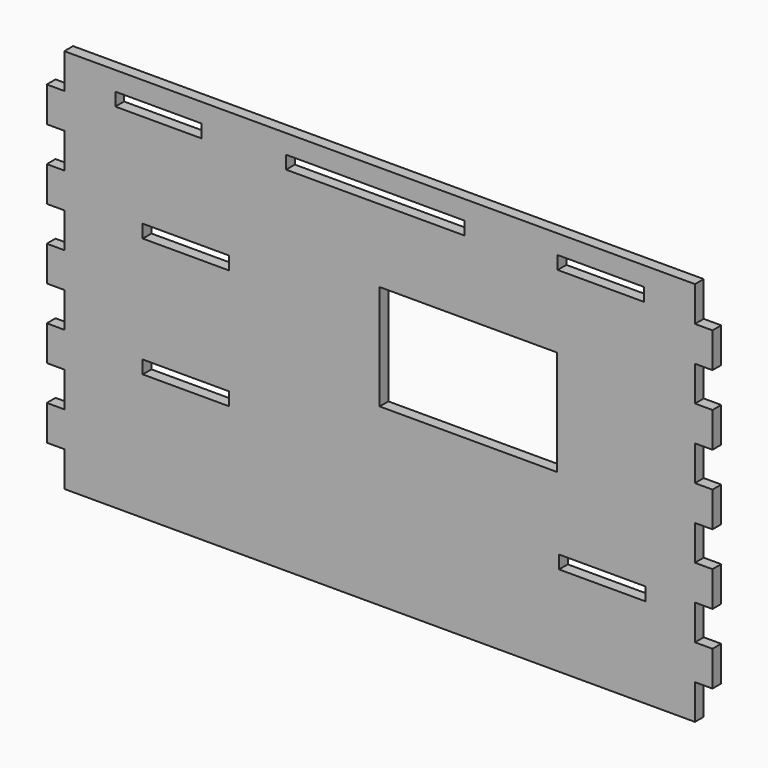
from build123d import *

# Parameters (mm, degrees)
F0_W     = 4
F0_H     = 8
F0_W_2   = 19.7
F0_H_2   = 3
F0_W_3   = 40.7
F0_W_4   = 40.5
F0_H_3   = 24
F1_DEPTH = 2.5


with BuildPart() as f1:
    # F0 (on Front) → F1 (new body)
    with BuildSketch(Plane.XZ):
        with Locations((74, -16)):
            Rectangle(F0_W, F0_H)
        with Locations((74, -32)):
            Rectangle(F0_W, F0_H)
        Polygon((-1, 44), (-72, 44), (-72, 36), (-72, 28), (-72, 20), (-72, 12), (-72, 4), (-72, -4), (-72, -12), (-72, -20), (-72, -28), (-72, -36), (-72, -44), (72, -44), (72, -36), (72, -28), (72, -20), (72, -12), (72, -4), (72, 4), (72, 12), (72, 20), (72, 28), (72, 36), (72, 44), align=None)
        with Locations((-44.236, -13.65)):
            Rectangle(F0_W_2, F0_H_2, mode=Mode.SUBTRACT)
        with Locations((50.815, -21.94)):
            Rectangle(F0_W_2, F0_H_2, mode=Mode.SUBTRACT)
        with Locations((-44.236, 13.65)):
            Rectangle(F0_W_2, F0_H_2, mode=Mode.SUBTRACT)
        with Locations((-50.5, 38.15)):
            Rectangle(F0_W_2, F0_H_2, mode=Mode.SUBTRACT)
        with Locations((-1, 38.15)):
            Rectangle(F0_W_3, F0_H_2, mode=Mode.SUBTRACT)
        with Locations((20.25, 8)):
            Rectangle(F0_W_4, F0_H_3, mode=Mode.SUBTRACT)
        with Locations((50.5, 38.15)):
            Rectangle(F0_W_2, F0_H_2, mode=Mode.SUBTRACT)
        with Locations((74, 0)):
            Rectangle(F0_W, F0_H)
        with Locations((74, 16)):
            Rectangle(F0_W, F0_H)
        with Locations((74, 32)):
            Rectangle(F0_W, F0_H)
        with Locations((-74, -32)):
            Rectangle(F0_W, F0_H)
        with Locations((-74, -16)):
            Rectangle(F0_W, F0_H)
        with Locations((-74, 0)):
            Rectangle(F0_W, F0_H)
        with Locations((-74, 32)):
            Rectangle(F0_W, F0_H)
        with Locations((-74, 16)):
            Rectangle(F0_W, F0_H)
    extrude(amount=F1_DEPTH)


solid = f1.part
